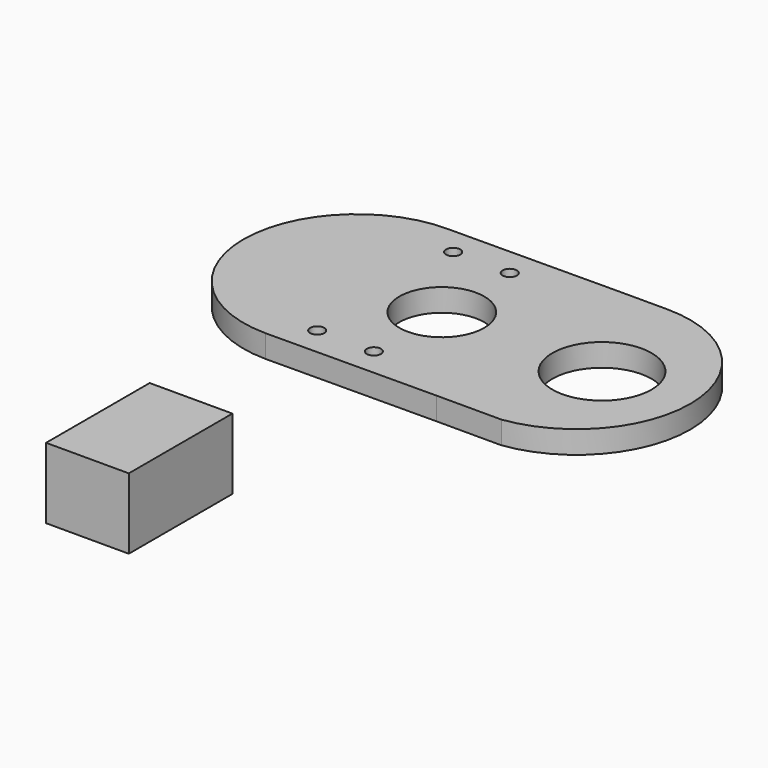
from build123d import *

# Parameters (mm, degrees)
F0_R     = 2.5
F0_R_2   = 15
F0_R_3   = 17.5
F1_DEPTH = 8
F2_W     = 29.21
F2_H     = 45.72
F3_DEPTH = 25


with BuildPart() as f1:
    # F0 (on Top) → F1 (new body)
    with BuildSketch(Plane.XY):
        with BuildLine():
            Line((47.5365072489, 40.1798446656), (30.0673510397, 40.1798446656))
            Line((30.0673510397, 40.1798446656), (-30.0673510397, 39.8201553344))
            ThreePointArc((-30.0673510397, 39.8201553344), (-69.8908630641, -0.1798446656), (-30.0673510397, -40.1798446656))
            Line((-30.0673510397, -40.1798446656), (30.0673510397, -39.8201553344))
            Line((30.0673510397, -39.8201553344), (52.9007543066, -39.8201553344))
            ThreePointArc((52.9007543066, -39.8201553344), (87.6263287329, 2.6881463368), (47.5365072489, 40.1798446656))
        make_face()
        with BuildLine():
            Line((-30.158165083, 34.819522698), (30.0823043903, 35.1798446656))
            Line((30.0823043903, 35.1798446656), (47.5365072489, 35.1798446656))
            ThreePointArc((47.5365072489, 35.1798446656), (82.7163519145, 0), (47.5365072489, -35.1798446656))
            Line((47.5365072489, -35.1798446656), (-29.8931489636, -35.1802356388))
            ThreePointArc((-29.8931489636, -35.1802356388), (-64.8906122282, -0.3123537137), (-30.158165083, 34.819522698))
        make_face(mode=Mode.SUBTRACT)
        with BuildLine():
            Line((47.5365072489, 35.1798446656), (30.0823043903, 35.1798446656))
            Line((30.0823043903, 35.1798446656), (-30.158165083, 34.819522698))
            ThreePointArc((-30.158165083, 34.819522698), (-64.8906122282, -0.3123537137), (-29.8931489636, -35.1802356388))
            Line((-29.8931489636, -35.1802356388), (47.5365072489, -35.1798446656))
            ThreePointArc((47.5365072489, -35.1798446656), (82.7163519145, 0), (47.5365072489, 35.1798446656))
        make_face()
        with Locations((-20, -30)):
            Circle(F0_R, mode=Mode.SUBTRACT)
        with Locations((0, -30)):
            Circle(F0_R, mode=Mode.SUBTRACT)
        Circle(F0_R_2, mode=Mode.SUBTRACT)
        with Locations((56.5655827522, 0)):
            Circle(F0_R_3, mode=Mode.SUBTRACT)
        with Locations((-20, 30)):
            Circle(F0_R, mode=Mode.SUBTRACT)
        with Locations((0, 30)):
            Circle(F0_R, mode=Mode.SUBTRACT)
    extrude(amount=F1_DEPTH)


with BuildPart() as f3:
    # F2 (on Top) → F3 (new body)
    with BuildSketch(Plane.XY):
        with Locations((-1.4707511291, -131.7193172872)):
            Rectangle(F2_W, F2_H)
    extrude(amount=F3_DEPTH)


solid = Compound([f1.part, f3.part])
